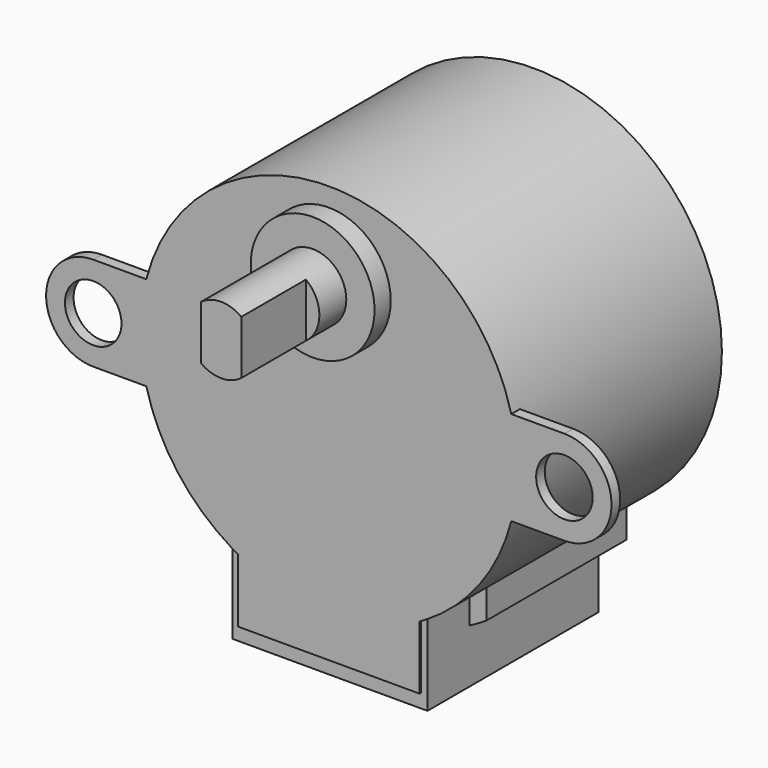
from build123d import *

# Parameters (mm, degrees)
SKETCH010_R     = 14
PAD005_DEPTH    = 19
SKETCH011_W     = 14.5
SKETCH011_H     = 6.02346
PAD006_DEPTH    = 16
SKETCH012_R     = 2.1
PAD007_DEPTH    = 0.8
SKETCH013_R     = 4.6
PAD008_DEPTH    = 1.5
SKETCH014_R     = 2.5
PAD009_DEPTH    = 2.5
PAD010_DEPTH    = 6
PAD011_DEPTH    = 12
PAD012_DEPTH    = 1
POCKET006_DEPTH = 0.1


with BuildPart() as part:
    # Sketch010 → Pad005 (new body)
    with BuildSketch(Plane.XZ):
        Circle(SKETCH010_R)
    extrude(amount=-PAD005_DEPTH)

    # Sketch011 (on Face2 of Pad005) → Pad006 (join)
    with BuildSketch(Plane.XZ):
        with Locations((0, -14.98827)):
            Rectangle(SKETCH011_W, SKETCH011_H)
    extrude(amount=-PAD006_DEPTH)

    # Sketch012 (on Face7 of Pad006) → Pad007 (join)
    with BuildSketch(Plane.XZ):
        with BuildLine():
            ThreePointArc((-17.5, 3.5), (-21, 0), (-17.5, -3.5))
            Line((-13.555442, -3.5), (-17.5, -3.5))
            Line((-13.555442, 3.5), (-13.555442, -3.5))
            Line((-17.5, 3.5), (-13.555442, 3.5))
        make_face()
        with Locations((-17.5, 0)):
            Circle(SKETCH012_R, mode=Mode.SUBTRACT)
    pad007 = extrude(amount=-PAD007_DEPTH)

    # Mirrored: Pad007 across Sketch012 V_Axis
    add(pad007.mirror(Plane(origin=(0, 0, 0), x_dir=(0, -1, 0), z_dir=(1, 0, 0))))

    # Sketch013 (on Face17 of Mirrored) → Pad008 (join)
    with BuildSketch(Plane.XZ):
        with Locations((0, 8)):
            Circle(SKETCH013_R)
    extrude(amount=PAD008_DEPTH)

    # Sketch014 (on Face19 of Pad008) → Pad009 (join)
    with BuildSketch(Plane.XZ.offset(1.5)):
        with Locations((0, 8)):
            Circle(SKETCH014_R)
    extrude(amount=PAD009_DEPTH)

    # Sketch015 (on Face21 of Pad009) → Pad010 (join)
    with BuildSketch(Plane.XZ.offset(4)):
        with BuildLine():
            Line((-1.5, 10), (-1.5, 6))
            ThreePointArc((-1.5, 6), (0, 5.5), (1.5, 6))
            Line((1.5, 10), (1.5, 6))
            ThreePointArc((1.5, 10), (0, 10.5), (-1.5, 10))
        make_face()
    extrude(amount=PAD010_DEPTH)

    # Sketch016 (on DatumPlane) → Pad011 (join)
    with BuildSketch(Plane.XZ.offset(-4)):
        with BuildLine():
            ThreePointArc((-8.5, -13.278272), (-7.883264, -13.653448), (-7.25, -14))
            Line((-7.25, -14), (-7.25, -11.97654))
            ThreePointArc((-8.5, -11.124298), (-7.88652, -11.567316), (-7.25, -11.97654))
            Line((-8.5, -13.278272), (-8.5, -11.124298))
        make_face()
    pad011 = extrude(amount=-PAD011_DEPTH)

    # Mirrored001: Pad011 across Sketch016 V_Axis
    add(pad011.mirror(Plane(origin=(0, 4, 0), x_dir=(0, -1, 0), z_dir=(1, 0, 0))))

    # Sketch017 (on Face31 of Mirrored001) → Pad012 (join)
    with BuildSketch(Plane(origin=(0, 16, 0), x_dir=(1, 0, 0), z_dir=(0, 1, 0))):
        with BuildLine():
            ThreePointArc((8.5, 11.124298), (0, 14), (-8.5, 11.124298))
            Line((-8.5, 13.278272), (-8.5, 11.124298))
            ThreePointArc((8.5, 13.278272), (0, 15.765865), (-8.5, 13.278272))
            Line((8.5, 13.278272), (8.5, 11.124298))
        make_face()
    extrude(amount=PAD012_DEPTH)

    # Sketch018 (on Face9 of Pad012) → Pocket006 (cut)
    with BuildSketch(Plane.XZ):
        with BuildLine():
            Line((-7.25, -11.97654), (-7.25, -18))
            Line((7.25, -18), (-7.25, -18))
            Line((7.25, -18), (7.25, -11.97654))
            ThreePointArc((6.75, -12.265297), (7.001278, -12.123131), (7.25, -11.97654))
            Line((6.75, -17), (6.75, -12.265297))
            Line((-6.75, -17), (6.75, -17))
            Line((-6.75, -12.265297), (-6.75, -17))
            ThreePointArc((-7.25, -11.97654), (-7.001489, -12.123496), (-6.75, -12.265297))
        make_face()
    extrude(amount=-POCKET006_DEPTH, mode=Mode.SUBTRACT)


solid = part.part
